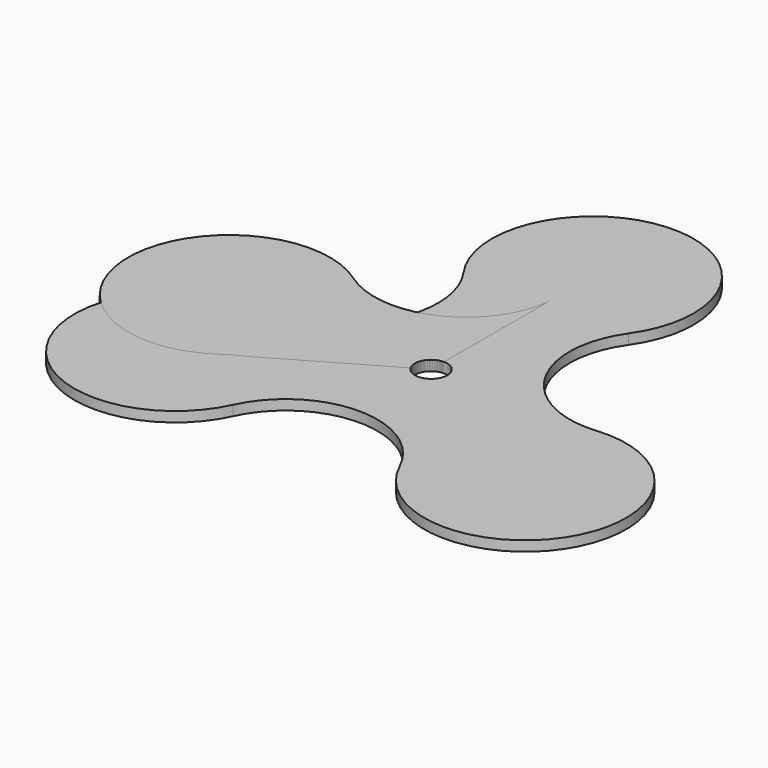
from build123d import *

# Parameters (mm, degrees)
F0_R     = 100
F0_R_2   = 20
F1_DEPTH = 12.5
F3_DEPTH = 12.5
F5_ANGLE = 90


with BuildPart() as f1:
    # F0 (on Top) → F1 (new body)
    with BuildSketch(Plane.XY):
        with BuildLine():
            ThreePointArc((205.158335, -0.516176), (96.574996, 55.7576), (102.132146, 177.930417))
            ThreePointArc((102.132146, 177.930417), (0, 375), (-102.132146, 177.930417))
            ThreePointArc((-102.132146, 177.930417), (-96.574996, 55.7576), (-205.158335, -0.516176))
            ThreePointArc((-205.158335, -0.516176), (-324.759526, -187.5), (-103.026189, -177.414242))
            ThreePointArc((-103.026189, -177.414242), (0, -111.5152), (103.026189, -177.414242))
            ThreePointArc((103.026189, -177.414242), (324.759526, -187.5), (205.158335, -0.516176))
        make_face()
        Circle(F0_R, mode=Mode.SUBTRACT)
        Circle(F0_R)
        Circle(F0_R_2, mode=Mode.SUBTRACT)
    extrude(amount=F1_DEPTH)


with BuildPart() as f3:
    # F2 (on Top) → F3 (new body)
    with BuildSketch(Plane.XY):
        with BuildLine():
            ThreePointArc((179.937609, 0), (90.877396, 67.032331), (102.132146, 177.930417))
            ThreePointArc((102.132146, 177.930417), (0, 375), (-102.132146, 177.930417))
            ThreePointArc((-102.132146, 177.930417), (-95.434507, 167.219496), (-89.968805, 155.830541))
            Line((-89.968805, 155.830541), (-10, 17.320508))
            ThreePointArc((-10, 17.320508), (10, 17.320508), (20, 0))
            Line((20, 0), (179.937609, 0))
        make_face()
    extrude(amount=F3_DEPTH)


with BuildPart() as f3_1:
    # F5: moved
    add(f3.part.rotate(Axis((0, 0, 34.587573), (0, 0, 1)), F5_ANGLE))


solid = Compound([f1.part, f3_1.part])
